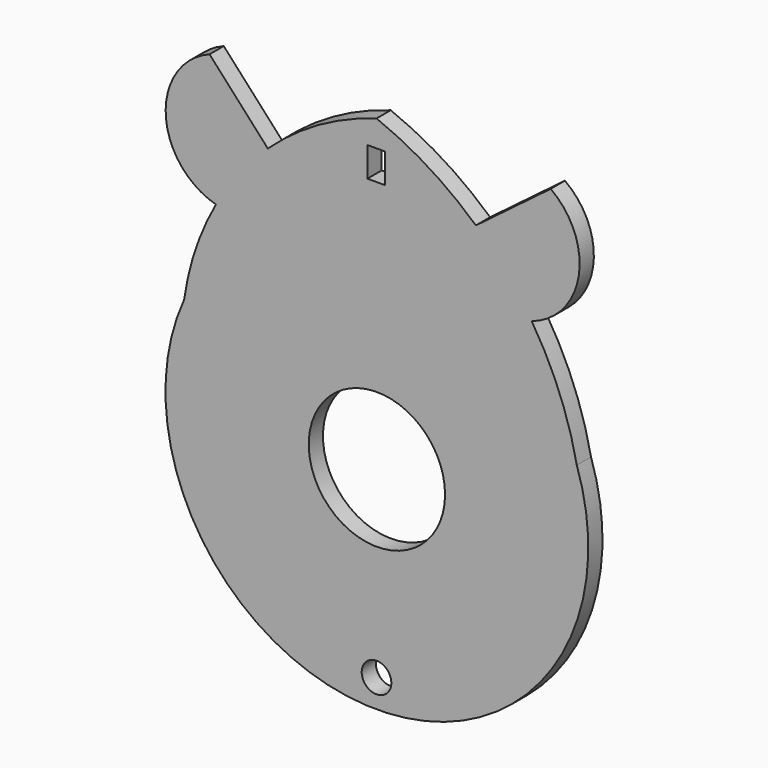
from build123d import *

# Parameters (mm, degrees)
F0_R     = 2.5
F0_R_2   = 11.5
F0_W     = 3
F0_H     = 5
F1_DEPTH = 3


with BuildPart() as f1:
    # F0 (on Front) → F1 (new body)
    with BuildSketch(Plane.XZ):
        with BuildLine():
            ThreePointArc((16.764315, 61.961108), (8.853103, 67.935443), (0, 72.396668))
            ThreePointArc((0, 72.396668), (-9.777894, 68.249174), (-18.337633, 61.961108))
            Line((-18.337633, 61.961108), (-28.173993, 72.762809))
            ThreePointArc((-28.173993, 72.762809), (-35.567344, 61.393833), (-27.096893, 50.802954))
            ThreePointArc((-27.096893, 50.802954), (-30.514196, 43.110071), (-32.465961, 34.921723))
            ThreePointArc((-32.465961, 34.921723), (-1.573604, -15.357243), (33.794846, 31.880294))
            ThreePointArc((33.794846, 31.880294), (30.872455, 41.696517), (26.18509, 50.802954))
            ThreePointArc((26.18509, 50.802954), (34.13646, 60.162905), (29.391652, 71.490736))
            Line((29.391652, 71.490736), (16.764315, 61.961108))
        make_face()
        with Locations((0, -10.652433)):
            Circle(F0_R, mode=Mode.SUBTRACT)
        with Locations((0.062069, 20.277656)):
            Circle(F0_R_2, mode=Mode.SUBTRACT)
        with Locations((-0.034122, 65.450957)):
            Rectangle(F0_W, F0_H, mode=Mode.SUBTRACT)
    extrude(amount=F1_DEPTH)


solid = f1.part
